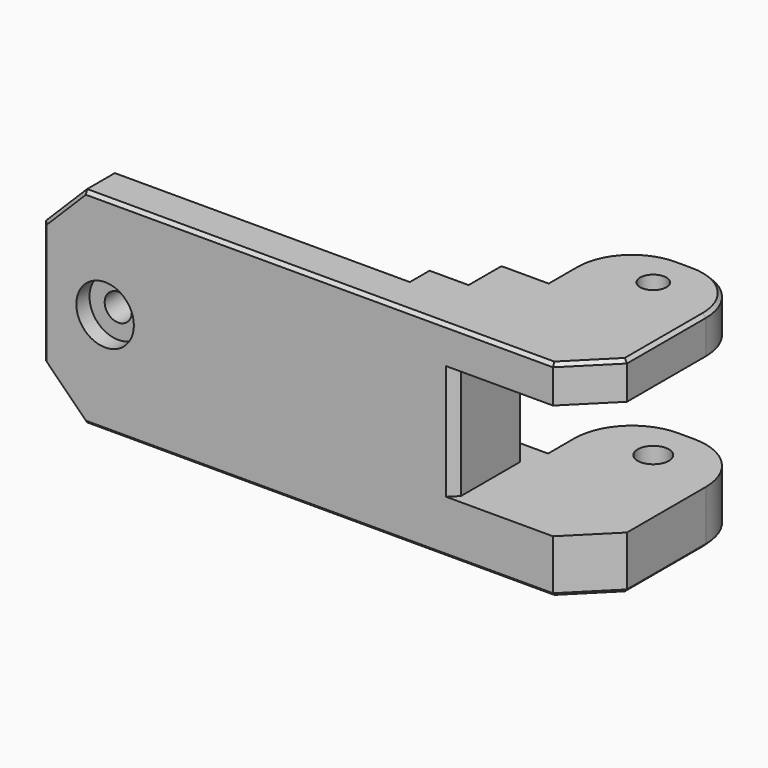
from build123d import *

# Parameters (mm, degrees)
BOX044_W                                   = 19
BOX044_H                                   = 29
BOX044_DEPTH                               = 14
BOX043_W                                   = 23
BOX043_H                                   = 10
BOX043_DEPTH                               = 14
CYLINDER012_R                              = 1.9
CYLINDER012_DEPTH                          = 10
CYLINDER014_R                              = 3.5
CYLINDER014_DEPTH                          = 2
CYLINDER013_R                              = 1.65
CYLINDER013_DEPTH                          = 10
CYLINDER010_R                              = 1.6
CYLINDER010_DEPTH                          = 18
CYLINDER011_R                              = 1.9
CYLINDER011_DEPTH                          = 18
BOX015_W                                   = 5.75
BOX015_H                                   = 13
BOX015_DEPTH                               = 25
CHAMFER016016006_SIZE                      = 0.4
BOX009_W                                   = 16
BOX009_H                                   = 24
BOX009_DEPTH                               = 4.5
FILLET001_R                                = 7
CHAMFER011_SIZE                            = 5
BOX010_W                                   = 16
BOX010_H                                   = 24
BOX010_DEPTH                               = 6.5
FILLET002_R                                = 7
CHAMFER009_SIZE                            = 5
BOX012_W                                   = 43.5
BOX012_H                                   = 8
BOX012_DEPTH                               = 25
BOX008_W                                   = 52
BOX008_H                                   = 8
BOX008_DEPTH                               = 25
CHAMFER016016004_SIZE                      = 5
BOX011_W                                   = 21.75
BOX011_H                                   = 13
BOX011_DEPTH                               = 14
CHAMFER016016005_SIZE                      = 5
CHAMFER016016007_SIZE                      = 0.4
CHAMFER016016008004017002013005003_SIZE    = 1
CHAMFER016016008004017002013005004_SIZE    = 1
CHAMFER016016008004017002013005004002_SIZE = 0.4


with BuildPart() as cube044:
    # Box044 → Box044 (new body)
    with BuildSketch(Plane(origin=(5, -40.5, -20.5), x_dir=(1, 0, 0), z_dir=(0, 0, 1))):
        with Locations((9.5, 14.5)):
            Rectangle(BOX044_W, BOX044_H)
    extrude(amount=BOX044_DEPTH)


with BuildPart() as cube043:
    # Box043 → Box043 (new body)
    with BuildSketch(Plane(origin=(0, -29, -20.5), x_dir=(1, 0, 0), z_dir=(0, 0, 1))):
        with Locations((11.5, 5)):
            Rectangle(BOX043_W, BOX043_H)
    extrude(amount=BOX043_DEPTH)


with BuildPart() as cylinder012:
    # Cylinder012 → Cylinder012 (new body)
    with BuildSketch(Plane(origin=(-15, -37.5, -12.5), x_dir=(1, 0, 0), z_dir=(0, 1, 0))):
        Circle(CYLINDER012_R)
    extrude(amount=CYLINDER012_DEPTH)


with BuildPart() as cylinder014:
    # Cylinder014 → Cylinder014 (new body)
    with BuildSketch(Plane(origin=(-37.5, -39, -12.5), x_dir=(1, 0, 0), z_dir=(0, 1, 0))):
        Circle(CYLINDER014_R)
    extrude(amount=CYLINDER014_DEPTH)


with BuildPart() as fusion011:
    # Cylinder013 → Cylinder013 (new body)
    with BuildSketch(Plane(origin=(-37.5, -41.5, -12.5), x_dir=(1, 0, 0), z_dir=(0, 1, 0))):
        Circle(CYLINDER013_R)
    extrude(amount=CYLINDER013_DEPTH)

    # Fusion011: union Cylinder012, Cylinder014
    add(cylinder012.part)
    add(cylinder014.part)


with BuildPart() as cylinder010:
    # Cylinder010 → Cylinder010 (new body)
    with BuildSketch(Plane(origin=(10, -20, -30), x_dir=(1, 0, 0), z_dir=(0, 0, 1))):
        Circle(CYLINDER010_R)
    extrude(amount=CYLINDER010_DEPTH)


with BuildPart() as fusion010:
    # Cylinder011 → Cylinder011 (new body)
    with BuildSketch(Plane(origin=(10, -20, -11), x_dir=(1, 0, 0), z_dir=(0, 0, 1))):
        Circle(CYLINDER011_R)
    extrude(amount=CYLINDER011_DEPTH)

    # Fusion010: union Cylinder010
    add(cylinder010.part)


with BuildPart() as fusion010_1:
    # Fusion010 placement: moved
    add(fusion010.part.moved(Location((4, 0, 0))))


with BuildPart() as chamfer016016006:
    # Box015 → Box015 (new body)
    with BuildSketch(Plane(origin=(0.25, -39, -25), x_dir=(1, 0, 0), z_dir=(0, 0, 1))):
        with Locations((2.875, 6.5)):
            Rectangle(BOX015_W, BOX015_H)
    extrude(amount=BOX015_DEPTH)

    # Chamfer016016006
    chamfer016016006_edges = [chamfer016016006.edges().sort_by_distance(p)[0] for p in [
        (0.25, -26, -12.5),
    ]]
    chamfer(chamfer016016006_edges, length=CHAMFER016016006_SIZE)


with BuildPart() as chamfer011:
    # Box009 → Box009 (new body)
    with BuildSketch(Plane(origin=(2, -39, -25), x_dir=(1, 0, 0), z_dir=(0, 0, 1))):
        with Locations((8, 12)):
            Rectangle(BOX009_W, BOX009_H)
    extrude(amount=BOX009_DEPTH)

    # Fillet001
    fillet001_edges = [chamfer011.edges().sort_by_distance(p)[0] for p in [
        (2, -15, -22.75),
        (18, -15, -22.75),
    ]]
    fillet(fillet001_edges, radius=FILLET001_R)

    # Chamfer011
    chamfer011_edges = [chamfer011.edges().sort_by_distance(p)[0] for p in [
        (18, -39, -22.75),
    ]]
    chamfer(chamfer011_edges, length=CHAMFER011_SIZE)


with BuildPart() as chamfer011_1:
    # Chamfer011 placement: moved
    add(chamfer011.part.moved(Location((4, 0, 0))))


with BuildPart() as chamfer009:
    # Box010 → Box010 (new body)
    with BuildSketch(Plane(origin=(2, -39, -6.5), x_dir=(1, 0, 0), z_dir=(0, 0, 1))):
        with Locations((8, 12)):
            Rectangle(BOX010_W, BOX010_H)
    extrude(amount=BOX010_DEPTH)

    # Fillet002
    fillet002_edges = [chamfer009.edges().sort_by_distance(p)[0] for p in [
        (2, -15, -3.25),
        (18, -15, -3.25),
    ]]
    fillet(fillet002_edges, radius=FILLET002_R)

    # Chamfer009
    chamfer009_edges = [chamfer009.edges().sort_by_distance(p)[0] for p in [
        (18, -39, -3.25),
    ]]
    chamfer(chamfer009_edges, length=CHAMFER009_SIZE)


with BuildPart() as chamfer009_1:
    # Chamfer009 placement: moved
    add(chamfer009.part.moved(Location((4, 0, 0))))


with BuildPart() as cube012:
    # Box012 → Box012 (new body)
    with BuildSketch(Plane(origin=(-48, -34, -25), x_dir=(1, 0, 0), z_dir=(0, 0, 1))):
        with Locations((21.75, 4)):
            Rectangle(BOX012_W, BOX012_H)
    extrude(amount=BOX012_DEPTH)


with BuildPart() as chamfer016016004:
    # Box008 → Box008 (new body)
    with BuildSketch(Plane(origin=(-45, -39, -25), x_dir=(1, 0, 0), z_dir=(0, 0, 1))):
        with Locations((26, 4)):
            Rectangle(BOX008_W, BOX008_H)
    extrude(amount=BOX008_DEPTH)

    # Cut010011006: cut Cube012
    add(cube012.part, mode=Mode.SUBTRACT)

    # Chamfer016016004
    chamfer016016004_edges = [chamfer016016004.edges().sort_by_distance(p)[0] for p in [
        (-45, -36.5, 0),
        (-45, -36.5, -25),
    ]]
    chamfer(chamfer016016004_edges, length=CHAMFER016016004_SIZE)


with BuildPart() as chamfer016016008004017002013005004002:
    # Box011 → Box011 (new body)
    with BuildSketch(Plane(origin=(0.25, -39, -20.5), x_dir=(1, 0, 0), z_dir=(0, 0, 1))):
        with Locations((10.875, 6.5)):
            Rectangle(BOX011_W, BOX011_H)
    extrude(amount=BOX011_DEPTH)

    # Chamfer016016005
    chamfer016016005_edges = [chamfer016016008004017002013005004002.edges().sort_by_distance(p)[0] for p in [
        (22, -39, -13.5),
    ]]
    chamfer(chamfer016016005_edges, length=CHAMFER016016005_SIZE)

    # Chamfer016016007
    chamfer016016007_edges = [chamfer016016008004017002013005004002.edges().sort_by_distance(p)[0] for p in [
        (0.25, -26, -13.5),
    ]]
    chamfer(chamfer016016007_edges, length=CHAMFER016016007_SIZE)

    # Fusion017: union Chamfer016016006, Chamfer011, Chamfer009, Chamfer016016004
    add(chamfer016016006.part)
    add(chamfer011_1.part)
    add(chamfer009_1.part)
    add(chamfer016016004.part)

    # Cut010011007: cut Fusion010
    add(fusion010_1.part, mode=Mode.SUBTRACT)

    # Cut010011008: cut Fusion011
    add(fusion011.part, mode=Mode.SUBTRACT)

    # Cut010011008009003016026002: cut Cube043
    add(cube043.part, mode=Mode.SUBTRACT)

    # Chamfer016016008004017002013005003
    chamfer016016008004017002013005003_edges = [chamfer016016008004017002013005004002.edges().sort_by_distance(p)[0] for p in [
        (22, -29, -13.5),
        (0.25, -29, -13.5),
    ]]
    chamfer(chamfer016016008004017002013005003_edges, length=CHAMFER016016008004017002013005003_SIZE)

    # Cut010011008009003016026003: cut Cube044
    add(cube044.part, mode=Mode.SUBTRACT)

    # Chamfer016016008004017002013005004
    chamfer016016008004017002013005004_edges = [chamfer016016008004017002013005004002.edges().sort_by_distance(p)[0] for p in [
        (5, -39, -13.5),
    ]]
    chamfer(chamfer016016008004017002013005004_edges, length=CHAMFER016016008004017002013005004_SIZE)

    # Chamfer016016008004017002013005004002
    chamfer016016008004017002013005004002_edges = [chamfer016016008004017002013005004002.edges().sort_by_distance(p)[0] for p in [
        (3.325, -26, -25),
        (0.45, -26.2, -25),
        (6, -24, -25),
        (8.050253, -17.050253, -25),
        (14, -15, -25),
        (22, -28, -25),
        (19.5, -36.5, -25),
        (19.949747, -17.050253, -25),
        (-11.5, -39, 0),
        (-42.5, -39, -2.5),
        (-45, -39, -12.5),
        (-42.5, -39, -22.5),
        (-11.5, -39, -25),
        (3.325, -26, 0),
        (0.45, -26.2, 0),
        (6, -24, 0),
        (8.050253, -17.050253, 0),
        (14, -15, 0),
        (22, -28, 0),
        (19.5, -36.5, 0),
        (19.949747, -17.050253, 0),
        (-2.125, -31, -25),
        (-2.125, -31, 0),
        (-4.5, -32.5, 0),
        (-4.5, -32.5, -25),
        (-42.5, -34, -22.5),
        (-45, -34, -12.5),
        (-42.5, -34, -2.5),
        (-22.25, -34, -25),
        (-22.25, -34, 0),
        (0.25, -28.7, -25),
        (0.25, -28.7, 0),
    ]]
    chamfer(chamfer016016008004017002013005004002_edges, length=CHAMFER016016008004017002013005004002_SIZE)


with BuildPart() as part_mirroring002:
    # Part__Mirroring002: instance of Chamfer016016008004017002013005004002
    add(chamfer016016008004017002013005004002.part.mirror(Plane(origin=(0, 0, 0), x_dir=(0, 1, 0), z_dir=(0, 0, 1))))


solid = part_mirroring002.part
